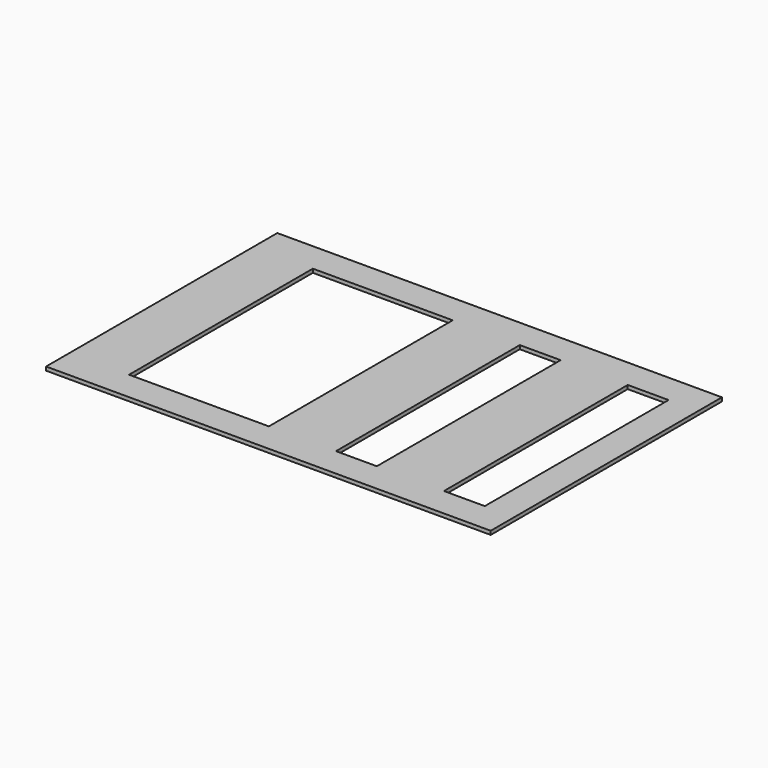
from build123d import *

# Parameters (mm, degrees)
SKETCH_W   = 762
SKETCH_H   = 495.3
SKETCH_W_2 = 70
SKETCH_H_2 = 393.7
SKETCH_W_3 = 239.6
PAD_DEPTH  = 6.35


with BuildPart() as part:
    # Sketch → Pad (new body)
    with BuildSketch(Plane.XY.offset(6.35)):
        Rectangle(SKETCH_W, SKETCH_H)
        with Locations((295.2, 0)):
            Rectangle(SKETCH_W_2, SKETCH_H_2, mode=Mode.SUBTRACT)
        with Locations((-159.6, 0)):
            Rectangle(SKETCH_W_3, SKETCH_H_2, mode=Mode.SUBTRACT)
        with Locations((110.2, 0)):
            Rectangle(SKETCH_W_2, SKETCH_H_2, mode=Mode.SUBTRACT)
    extrude(amount=PAD_DEPTH)


solid = part.part
